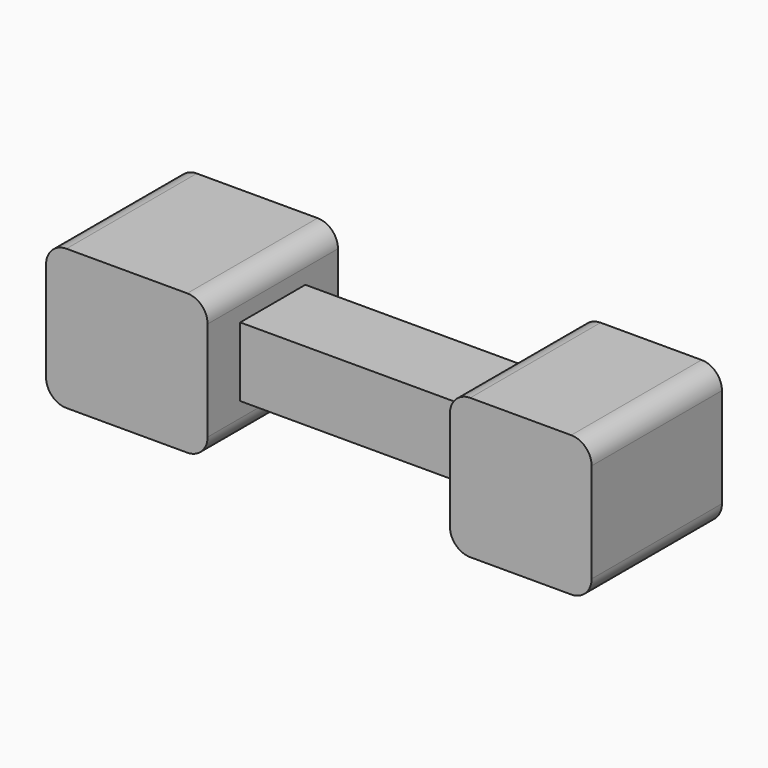
from build123d import *

# Parameters (mm, degrees)
F1_DEPTH = 25.4
F0_W     = 0.9847166896
F0_H     = 21.59
F0_W_2   = 75.2152833104
F2_DEPTH = 12.7


with BuildPart() as f1:
    # F0 (on Front) → F1 (new body, symmetric)
    with BuildSketch(Plane.XZ):
        with BuildLine():
            Line((44.7908310056, -21.8715034425), (76.2756945729, -21.8715034425))
            ThreePointArc((76.2756945729, -21.8715034425), (80.7658226335, -20.0116315031), (82.6256945729, -15.5215034425))
            Line((82.6256945729, -15.5215034425), (82.6256945729, 15.5215034425))
            ThreePointArc((82.6256945729, 15.5215034425), (80.7658226335, 20.0116315031), (76.2756945729, 21.8715034425))
            Line((76.2756945729, 21.8715034425), (44.7908310056, 21.8715034425))
            ThreePointArc((44.7908310056, 21.8715034425), (40.300702945, 20.0116315031), (38.4408310056, 15.5215034425))
            Line((38.4408310056, 15.5215034425), (38.4408310056, -15.5215034425))
            ThreePointArc((38.4408310056, -15.5215034425), (40.300702945, -20.0116315031), (44.7908310056, -21.8715034425))
        make_face()
    extrude(amount=F1_DEPTH, both=True)


with BuildPart() as f1b:
    # F0 (on Front) → F1, piece 2 (new body, symmetric)
    with BuildSketch(Plane.XZ):
        with BuildLine():
            Line((-38.1, -10.795), (-38.1, 10.795))
            Line((-38.1, 10.795), (-37.1152833104, 10.795))
            Line((-37.1152833104, 10.795), (-37.1152833104, 15.5215034425))
            ThreePointArc((-37.1152833104, 15.5215034425), (-38.9751552499, 20.0116315031), (-43.4652833104, 21.8715034425))
            Line((-43.4652833104, 21.8715034425), (-81.1360212207, 21.8715034425))
            ThreePointArc((-81.1360212207, 21.8715034425), (-85.6261492812, 20.0116315031), (-87.4860212207, 15.5215034425))
            Line((-87.4860212207, 15.5215034425), (-87.4860212207, -15.5215034425))
            ThreePointArc((-87.4860212207, -15.5215034425), (-85.6261492812, -20.0116315031), (-81.1360212207, -21.8715034425))
            Line((-81.1360212207, -21.8715034425), (-43.4652833104, -21.8715034425))
            ThreePointArc((-43.4652833104, -21.8715034425), (-38.9751552499, -20.0116315031), (-37.1152833104, -15.5215034425))
            Line((-37.1152833104, -15.5215034425), (-37.1152833104, -10.795))
            Line((-37.1152833104, -10.795), (-38.1, -10.795))
        make_face()
        with Locations((-37.6076416552, 0)):
            Rectangle(F0_W, F0_H)
    extrude(amount=F1_DEPTH, both=True)

    # F0 (on Front) → F2 (join, symmetric)
    with BuildSketch(Plane.XZ):
        with Locations((0.4923583448, 0)):
            Rectangle(F0_W_2, F0_H)
    extrude(amount=F2_DEPTH, both=True)


solid = Compound([f1.part, f1b.part])
